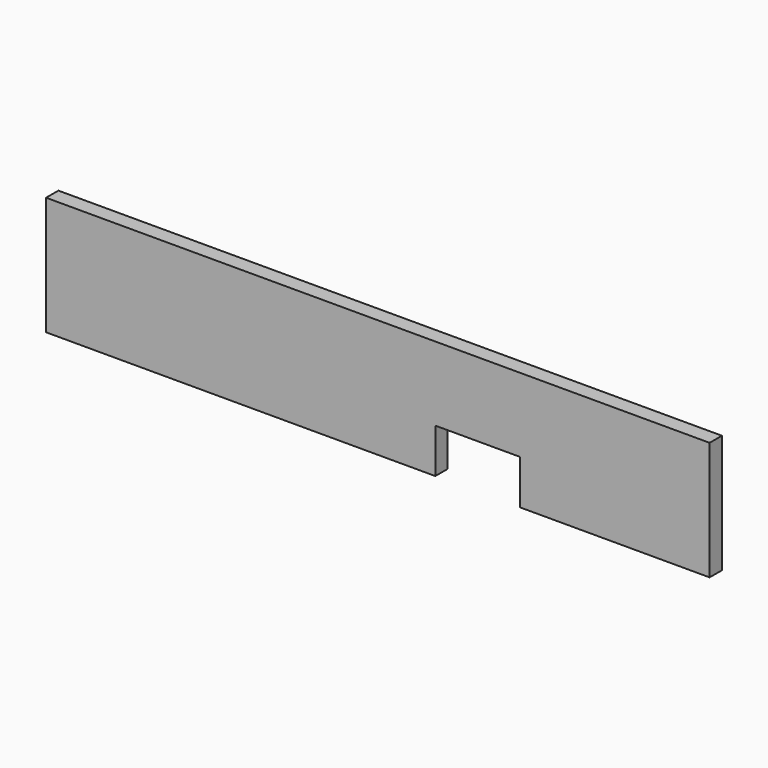
from build123d import *

# Parameters (mm, degrees)
BOX001_W     = 143
BOX001_H     = 64
BOX001_DEPTH = 76
BOX_W        = 1120
BOX_H        = 26
BOX_DEPTH    = 200


with BuildPart() as cube001:
    # Box001 → Box001 (new body)
    with BuildSketch(Plane(origin=(657, -16, -1), x_dir=(1, 0, 0), z_dir=(0, 0, 1))):
        with Locations((71.5, 32)):
            Rectangle(BOX001_W, BOX001_H)
    extrude(amount=BOX001_DEPTH)


with BuildPart() as cut:
    # Box → Box (new body)
    with BuildSketch(Plane.XY):
        with Locations((560, 13)):
            Rectangle(BOX_W, BOX_H)
    extrude(amount=BOX_DEPTH)

    # Cut: cut Cube001
    add(cube001.part, mode=Mode.SUBTRACT)


solid = cut.part
